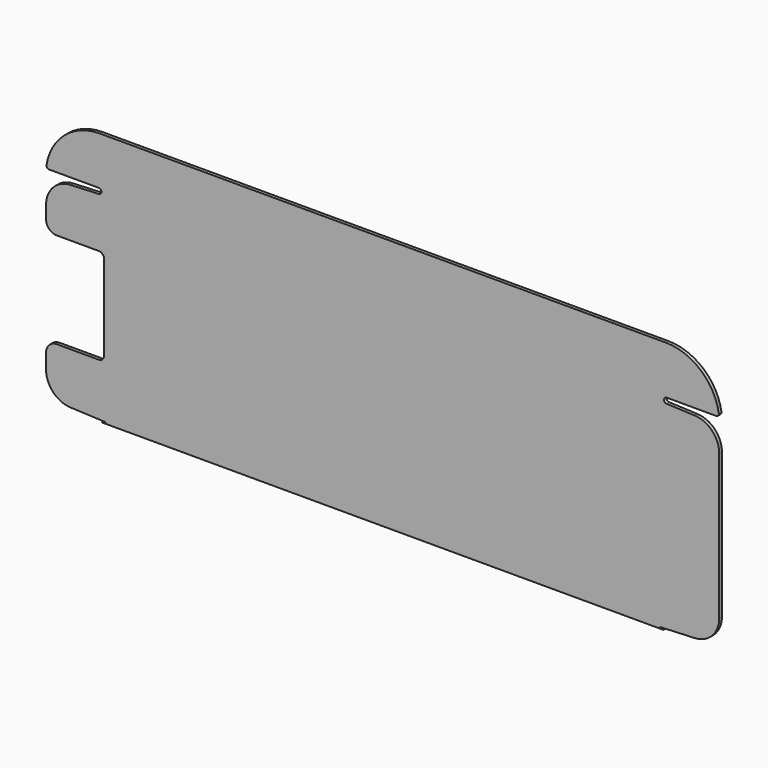
from build123d import *

# Parameters (mm, degrees)
F1_DEPTH = 7.9375
F2_R     = 0.635


with BuildPart() as f1:
    # F0 (on Front) → F1 (new body)
    with BuildSketch(Plane.XZ):
        with BuildLine():
            Line((-653.682642, -248.07856), (-665.9499, -251.365562))
            Line((-665.9499, -251.365562), (665.9499, -251.365562))
            Line((665.9499, -251.365562), (653.682642, -248.07856))
            Line((653.682642, -248.07856), (740.557894, -244.285505))
            ThreePointArc((740.557894, -244.285505), (781.50316, -225.733446), (798.251554, -184.017921))
            Line((798.251554, -184.017921), (798.251554, 160.088868))
            ThreePointArc((798.251554, 160.088868), (781.50316, 201.804393), (740.557894, 220.356452))
            Line((740.557894, 220.356452), (673.071263, 223.302982))
            ThreePointArc((673.071263, 223.302982), (666.999757, 229.785462), (673.348246, 235.996938))
            Line((673.348246, 235.996938), (790.988303, 235.996938))
            ThreePointArc((790.988303, 235.996938), (795.830132, 238.238509), (797.253598, 243.380659))
            ThreePointArc((797.253598, 243.380659), (753.87662, 319.965956), (671.251554, 350.296938))
            Line((671.251554, 350.296938), (-671.251554, 350.296938))
            ThreePointArc((-671.251554, 350.296938), (-753.87662, 319.965956), (-797.253598, 243.380659))
            ThreePointArc((-797.253598, 243.380659), (-795.830132, 238.238509), (-790.988303, 235.996938))
            Line((-790.988303, 235.996938), (-673.348246, 235.996938))
            ThreePointArc((-673.348246, 235.996938), (-666.999757, 229.785462), (-673.071263, 223.302982))
            Line((-673.071263, 223.302982), (-740.557894, 220.356452))
            ThreePointArc((-740.557894, 220.356452), (-781.50316, 201.804393), (-798.251554, 160.088868))
            Line((-798.251554, 160.088868), (-798.251554, 129.634438))
            ThreePointArc((-798.251554, 129.634438), (-790.812067, 111.673926), (-772.851554, 104.234438))
            Line((-772.851554, 104.234438), (-673.348246, 104.234438))
            ThreePointArc((-673.348246, 104.234438), (-664.36799, 100.514694), (-660.648246, 91.534438))
            Line((-660.648246, 91.534438), (-660.648246, -110.078062))
            ThreePointArc((-660.648246, -110.078062), (-664.36799, -119.058318), (-673.348246, -122.778062))
            Line((-673.348246, -122.778062), (-772.851554, -122.778062))
            ThreePointArc((-772.851554, -122.778062), (-790.812067, -130.21755), (-798.251554, -148.178062))
            Line((-798.251554, -148.178062), (-798.251554, -184.017921))
            ThreePointArc((-798.251554, -184.017921), (-781.50316, -225.733446), (-740.557894, -244.285505))
            Line((-740.557894, -244.285505), (-653.682642, -248.07856))
        make_face()
    extrude(amount=F1_DEPTH)

    # F2
    f2_edges = [f1.edges().sort_by_distance(p)[0] for p in [
        (-653.682642, -3.96875, -248.07856),
        (653.682642, -3.96875, -248.07856),
    ]]
    fillet(f2_edges, radius=F2_R)


solid = f1.part
